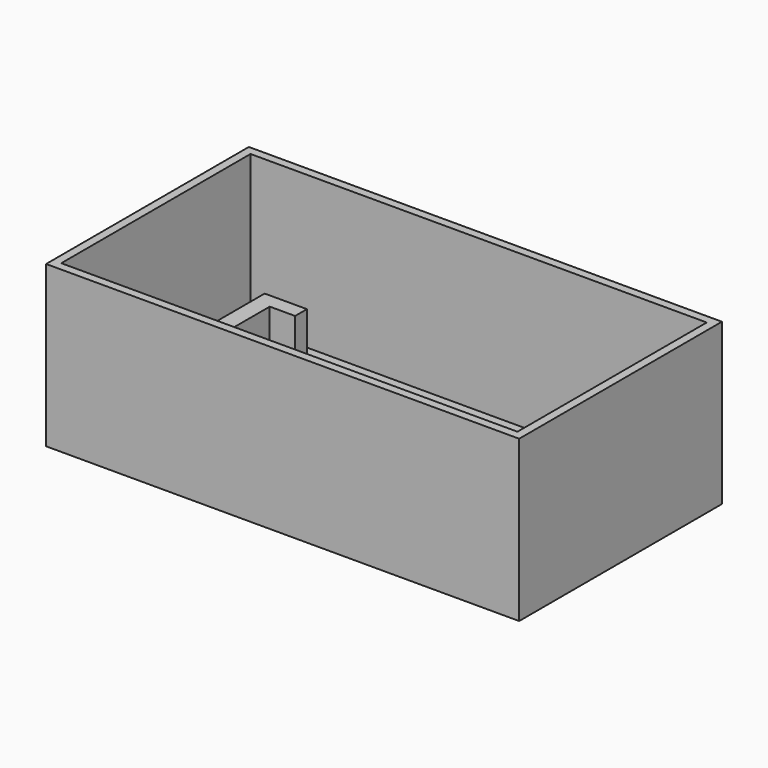
from build123d import *

# Parameters (mm, degrees)
SKETCH004_W     = 112
SKETCH004_H     = 60
PAD004_DEPTH    = 38
SKETCH006_W     = 108
SKETCH006_H     = 56
POCKET002_DEPTH = 36
PAD005_DEPTH    = 10


with BuildPart() as part:
    # Sketch004 → Pad004 (new body)
    with BuildSketch(Plane.XY):
        with Locations((8, 0)):
            Rectangle(SKETCH004_W, SKETCH004_H)
    extrude(amount=PAD004_DEPTH)

    # Sketch006 (on Face6 of Pad004) → Pocket002 (cut)
    with BuildSketch(Plane.XY.offset(38)):
        with Locations((8, 0)):
            Rectangle(SKETCH006_W, SKETCH006_H)
    extrude(amount=-POCKET002_DEPTH, mode=Mode.SUBTRACT)

    # Sketch007 (on Face11 of Pocket002) → Pad005 (join)
    with BuildSketch(Plane.XY.offset(2)):
        Polygon((-36.25, 21.5), (-36.25, -21.5), (-30.25, -21.5), (-30.25, -25), (-40.25, -25), (-40.25, 25), (-30.25, 25), (-30.25, 21.5), align=None)
        Polygon((42.25, -21.5), (42.25, 21.5), (36.25, 21.5), (36.25, 25), (46.25, 25), (46.25, -25), (36.25, -25), (36.25, -21.5), align=None)
    extrude(amount=PAD005_DEPTH)


solid = part.part
